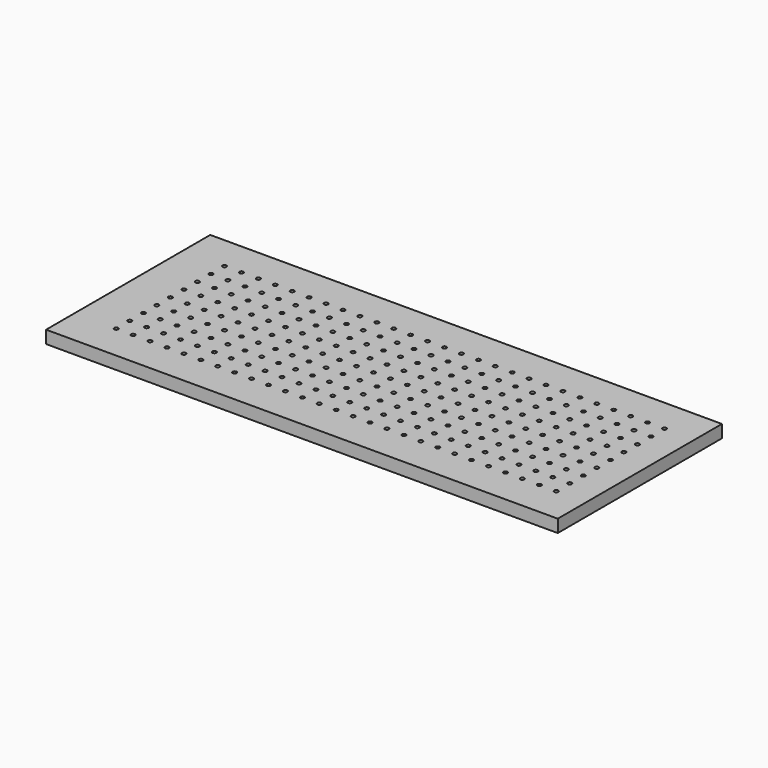
from build123d import *

# Parameters (mm, degrees)
F0_W     = 768
F0_H     = 308
F0_R     = 3
F1_DEPTH = 19.05


with BuildPart() as f1:
    # F0 (on Top) → F1 (new body)
    with BuildSketch(Plane.XY):
        with Locations((-204.445544, -567.981527)):
            Rectangle(F0_W, F0_H)
        with Locations((-525.842051, -668.64151)):
            Circle(F0_R, mode=Mode.SUBTRACT)
        with Locations((-500.442051, -668.64151)):
            Circle(F0_R, mode=Mode.SUBTRACT)
        with Locations((-475.042051, -668.64151)):
            Circle(F0_R, mode=Mode.SUBTRACT)
        with Locations((-449.642051, -668.64151)):
            Circle(F0_R, mode=Mode.SUBTRACT)
        with Locations((-424.242051, -668.64151)):
            Circle(F0_R, mode=Mode.SUBTRACT)
        with Locations((-398.842051, -668.64151)):
            Circle(F0_R, mode=Mode.SUBTRACT)
        with Locations((-373.442051, -668.64151)):
            Circle(F0_R, mode=Mode.SUBTRACT)
        with Locations((-348.042051, -668.64151)):
            Circle(F0_R, mode=Mode.SUBTRACT)
        with Locations((-322.642051, -668.64151)):
            Circle(F0_R, mode=Mode.SUBTRACT)
        with Locations((-297.242051, -668.64151)):
            Circle(F0_R, mode=Mode.SUBTRACT)
        with Locations((-271.842051, -668.64151)):
            Circle(F0_R, mode=Mode.SUBTRACT)
        with Locations((-246.442051, -668.64151)):
            Circle(F0_R, mode=Mode.SUBTRACT)
        with Locations((-221.042051, -668.64151)):
            Circle(F0_R, mode=Mode.SUBTRACT)
        with Locations((-525.842051, -643.24151)):
            Circle(F0_R, mode=Mode.SUBTRACT)
        with Locations((-500.442051, -643.24151)):
            Circle(F0_R, mode=Mode.SUBTRACT)
        with Locations((-525.842051, -617.84151)):
            Circle(F0_R, mode=Mode.SUBTRACT)
        with Locations((-500.442051, -617.84151)):
            Circle(F0_R, mode=Mode.SUBTRACT)
        with Locations((-475.042051, -643.24151)):
            Circle(F0_R, mode=Mode.SUBTRACT)
        with Locations((-449.642051, -643.24151)):
            Circle(F0_R, mode=Mode.SUBTRACT)
        with Locations((-424.242051, -643.24151)):
            Circle(F0_R, mode=Mode.SUBTRACT)
        with Locations((-398.842051, -643.24151)):
            Circle(F0_R, mode=Mode.SUBTRACT)
        with Locations((-475.042051, -617.84151)):
            Circle(F0_R, mode=Mode.SUBTRACT)
        with Locations((-449.642051, -617.84151)):
            Circle(F0_R, mode=Mode.SUBTRACT)
        with Locations((-424.242051, -617.84151)):
            Circle(F0_R, mode=Mode.SUBTRACT)
        with Locations((-398.842051, -617.84151)):
            Circle(F0_R, mode=Mode.SUBTRACT)
        with Locations((-525.842051, -592.44151)):
            Circle(F0_R, mode=Mode.SUBTRACT)
        with Locations((-500.442051, -592.44151)):
            Circle(F0_R, mode=Mode.SUBTRACT)
        with Locations((-475.042051, -592.44151)):
            Circle(F0_R, mode=Mode.SUBTRACT)
        with Locations((-449.642051, -592.44151)):
            Circle(F0_R, mode=Mode.SUBTRACT)
        with Locations((-424.242051, -592.44151)):
            Circle(F0_R, mode=Mode.SUBTRACT)
        with Locations((-398.842051, -592.44151)):
            Circle(F0_R, mode=Mode.SUBTRACT)
        with Locations((-373.442051, -643.24151)):
            Circle(F0_R, mode=Mode.SUBTRACT)
        with Locations((-348.042051, -643.24151)):
            Circle(F0_R, mode=Mode.SUBTRACT)
        with Locations((-322.642051, -643.24151)):
            Circle(F0_R, mode=Mode.SUBTRACT)
        with Locations((-373.442051, -617.84151)):
            Circle(F0_R, mode=Mode.SUBTRACT)
        with Locations((-348.042051, -617.84151)):
            Circle(F0_R, mode=Mode.SUBTRACT)
        with Locations((-322.642051, -617.84151)):
            Circle(F0_R, mode=Mode.SUBTRACT)
        with Locations((-297.242051, -643.24151)):
            Circle(F0_R, mode=Mode.SUBTRACT)
        with Locations((-271.842051, -643.24151)):
            Circle(F0_R, mode=Mode.SUBTRACT)
        with Locations((-246.442051, -643.24151)):
            Circle(F0_R, mode=Mode.SUBTRACT)
        with Locations((-221.042051, -643.24151)):
            Circle(F0_R, mode=Mode.SUBTRACT)
        with Locations((-297.242051, -617.84151)):
            Circle(F0_R, mode=Mode.SUBTRACT)
        with Locations((-271.842051, -617.84151)):
            Circle(F0_R, mode=Mode.SUBTRACT)
        with Locations((-246.442051, -617.84151)):
            Circle(F0_R, mode=Mode.SUBTRACT)
        with Locations((-221.042051, -617.84151)):
            Circle(F0_R, mode=Mode.SUBTRACT)
        with Locations((-373.442051, -592.44151)):
            Circle(F0_R, mode=Mode.SUBTRACT)
        with Locations((-348.042051, -592.44151)):
            Circle(F0_R, mode=Mode.SUBTRACT)
        with Locations((-322.642051, -592.44151)):
            Circle(F0_R, mode=Mode.SUBTRACT)
        with Locations((-297.242051, -592.44151)):
            Circle(F0_R, mode=Mode.SUBTRACT)
        with Locations((-271.842051, -592.44151)):
            Circle(F0_R, mode=Mode.SUBTRACT)
        with Locations((-246.442051, -592.44151)):
            Circle(F0_R, mode=Mode.SUBTRACT)
        with Locations((-221.042051, -592.44151)):
            Circle(F0_R, mode=Mode.SUBTRACT)
        with Locations((-195.642051, -668.64151)):
            Circle(F0_R, mode=Mode.SUBTRACT)
        with Locations((-170.242051, -668.64151)):
            Circle(F0_R, mode=Mode.SUBTRACT)
        with Locations((-144.842051, -668.64151)):
            Circle(F0_R, mode=Mode.SUBTRACT)
        with Locations((-119.442051, -668.64151)):
            Circle(F0_R, mode=Mode.SUBTRACT)
        with Locations((-94.042051, -668.64151)):
            Circle(F0_R, mode=Mode.SUBTRACT)
        with Locations((-68.642051, -668.64151)):
            Circle(F0_R, mode=Mode.SUBTRACT)
        with Locations((-43.242051, -668.64151)):
            Circle(F0_R, mode=Mode.SUBTRACT)
        with Locations((-17.842051, -668.64151)):
            Circle(F0_R, mode=Mode.SUBTRACT)
        with Locations((7.557949, -668.64151)):
            Circle(F0_R, mode=Mode.SUBTRACT)
        with Locations((32.957949, -668.64151)):
            Circle(F0_R, mode=Mode.SUBTRACT)
        with Locations((58.357949, -668.64151)):
            Circle(F0_R, mode=Mode.SUBTRACT)
        with Locations((83.757949, -668.64151)):
            Circle(F0_R, mode=Mode.SUBTRACT)
        with Locations((109.157949, -668.64151)):
            Circle(F0_R, mode=Mode.SUBTRACT)
        with Locations((134.557949, -668.64151)):
            Circle(F0_R, mode=Mode.SUBTRACT)
        with Locations((-195.642051, -643.24151)):
            Circle(F0_R, mode=Mode.SUBTRACT)
        with Locations((-170.242051, -643.24151)):
            Circle(F0_R, mode=Mode.SUBTRACT)
        with Locations((-144.842051, -643.24151)):
            Circle(F0_R, mode=Mode.SUBTRACT)
        with Locations((-119.442051, -643.24151)):
            Circle(F0_R, mode=Mode.SUBTRACT)
        with Locations((-195.642051, -617.84151)):
            Circle(F0_R, mode=Mode.SUBTRACT)
        with Locations((-170.242051, -617.84151)):
            Circle(F0_R, mode=Mode.SUBTRACT)
        with Locations((-144.842051, -617.84151)):
            Circle(F0_R, mode=Mode.SUBTRACT)
        with Locations((-119.442051, -617.84151)):
            Circle(F0_R, mode=Mode.SUBTRACT)
        with Locations((-94.042051, -643.24151)):
            Circle(F0_R, mode=Mode.SUBTRACT)
        with Locations((-68.642051, -643.24151)):
            Circle(F0_R, mode=Mode.SUBTRACT)
        with Locations((-43.242051, -643.24151)):
            Circle(F0_R, mode=Mode.SUBTRACT)
        with Locations((-17.842051, -643.24151)):
            Circle(F0_R, mode=Mode.SUBTRACT)
        with Locations((-94.042051, -617.84151)):
            Circle(F0_R, mode=Mode.SUBTRACT)
        with Locations((-68.642051, -617.84151)):
            Circle(F0_R, mode=Mode.SUBTRACT)
        with Locations((-43.242051, -617.84151)):
            Circle(F0_R, mode=Mode.SUBTRACT)
        with Locations((-17.842051, -617.84151)):
            Circle(F0_R, mode=Mode.SUBTRACT)
        with Locations((-195.642051, -592.44151)):
            Circle(F0_R, mode=Mode.SUBTRACT)
        with Locations((-170.242051, -592.44151)):
            Circle(F0_R, mode=Mode.SUBTRACT)
        with Locations((-144.842051, -592.44151)):
            Circle(F0_R, mode=Mode.SUBTRACT)
        with Locations((-119.442051, -592.44151)):
            Circle(F0_R, mode=Mode.SUBTRACT)
        with Locations((-94.042051, -592.44151)):
            Circle(F0_R, mode=Mode.SUBTRACT)
        with Locations((-68.642051, -592.44151)):
            Circle(F0_R, mode=Mode.SUBTRACT)
        with Locations((-43.242051, -592.44151)):
            Circle(F0_R, mode=Mode.SUBTRACT)
        with Locations((-17.842051, -592.44151)):
            Circle(F0_R, mode=Mode.SUBTRACT)
        with Locations((7.557949, -643.24151)):
            Circle(F0_R, mode=Mode.SUBTRACT)
        with Locations((32.957949, -643.24151)):
            Circle(F0_R, mode=Mode.SUBTRACT)
        with Locations((58.357949, -643.24151)):
            Circle(F0_R, mode=Mode.SUBTRACT)
        with Locations((7.557949, -617.84151)):
            Circle(F0_R, mode=Mode.SUBTRACT)
        with Locations((32.957949, -617.84151)):
            Circle(F0_R, mode=Mode.SUBTRACT)
        with Locations((58.357949, -617.84151)):
            Circle(F0_R, mode=Mode.SUBTRACT)
        with Locations((83.757949, -643.24151)):
            Circle(F0_R, mode=Mode.SUBTRACT)
        with Locations((109.157949, -643.24151)):
            Circle(F0_R, mode=Mode.SUBTRACT)
        with Locations((134.557949, -643.24151)):
            Circle(F0_R, mode=Mode.SUBTRACT)
        with Locations((83.757949, -617.84151)):
            Circle(F0_R, mode=Mode.SUBTRACT)
        with Locations((109.157949, -617.84151)):
            Circle(F0_R, mode=Mode.SUBTRACT)
        with Locations((134.557949, -617.84151)):
            Circle(F0_R, mode=Mode.SUBTRACT)
        with Locations((7.557949, -592.44151)):
            Circle(F0_R, mode=Mode.SUBTRACT)
        with Locations((32.957949, -592.44151)):
            Circle(F0_R, mode=Mode.SUBTRACT)
        with Locations((58.357949, -592.44151)):
            Circle(F0_R, mode=Mode.SUBTRACT)
        with Locations((83.757949, -592.44151)):
            Circle(F0_R, mode=Mode.SUBTRACT)
        with Locations((109.157949, -592.44151)):
            Circle(F0_R, mode=Mode.SUBTRACT)
        with Locations((134.557949, -592.44151)):
            Circle(F0_R, mode=Mode.SUBTRACT)
        with Locations((-525.842051, -567.04151)):
            Circle(F0_R, mode=Mode.SUBTRACT)
        with Locations((-500.442051, -567.04151)):
            Circle(F0_R, mode=Mode.SUBTRACT)
        with Locations((-525.842051, -541.64151)):
            Circle(F0_R, mode=Mode.SUBTRACT)
        with Locations((-500.442051, -541.64151)):
            Circle(F0_R, mode=Mode.SUBTRACT)
        with Locations((-475.042051, -567.04151)):
            Circle(F0_R, mode=Mode.SUBTRACT)
        with Locations((-449.642051, -567.04151)):
            Circle(F0_R, mode=Mode.SUBTRACT)
        with Locations((-424.242051, -567.04151)):
            Circle(F0_R, mode=Mode.SUBTRACT)
        with Locations((-398.842051, -567.04151)):
            Circle(F0_R, mode=Mode.SUBTRACT)
        with Locations((-475.042051, -541.64151)):
            Circle(F0_R, mode=Mode.SUBTRACT)
        with Locations((-449.642051, -541.64151)):
            Circle(F0_R, mode=Mode.SUBTRACT)
        with Locations((-424.242051, -541.64151)):
            Circle(F0_R, mode=Mode.SUBTRACT)
        with Locations((-398.842051, -541.64151)):
            Circle(F0_R, mode=Mode.SUBTRACT)
        with Locations((-525.842051, -516.24151)):
            Circle(F0_R, mode=Mode.SUBTRACT)
        with Locations((-500.442051, -516.24151)):
            Circle(F0_R, mode=Mode.SUBTRACT)
        with Locations((-475.042051, -516.24151)):
            Circle(F0_R, mode=Mode.SUBTRACT)
        with Locations((-449.642051, -516.24151)):
            Circle(F0_R, mode=Mode.SUBTRACT)
        with Locations((-424.242051, -516.24151)):
            Circle(F0_R, mode=Mode.SUBTRACT)
        with Locations((-398.842051, -516.24151)):
            Circle(F0_R, mode=Mode.SUBTRACT)
        with Locations((-373.442051, -567.04151)):
            Circle(F0_R, mode=Mode.SUBTRACT)
        with Locations((-348.042051, -567.04151)):
            Circle(F0_R, mode=Mode.SUBTRACT)
        with Locations((-322.642051, -567.04151)):
            Circle(F0_R, mode=Mode.SUBTRACT)
        with Locations((-373.442051, -541.64151)):
            Circle(F0_R, mode=Mode.SUBTRACT)
        with Locations((-348.042051, -541.64151)):
            Circle(F0_R, mode=Mode.SUBTRACT)
        with Locations((-322.642051, -541.64151)):
            Circle(F0_R, mode=Mode.SUBTRACT)
        with Locations((-297.242051, -567.04151)):
            Circle(F0_R, mode=Mode.SUBTRACT)
        with Locations((-271.842051, -567.04151)):
            Circle(F0_R, mode=Mode.SUBTRACT)
        with Locations((-246.442051, -567.04151)):
            Circle(F0_R, mode=Mode.SUBTRACT)
        with Locations((-221.042051, -567.04151)):
            Circle(F0_R, mode=Mode.SUBTRACT)
        with Locations((-297.242051, -541.64151)):
            Circle(F0_R, mode=Mode.SUBTRACT)
        with Locations((-271.842051, -541.64151)):
            Circle(F0_R, mode=Mode.SUBTRACT)
        with Locations((-246.442051, -541.64151)):
            Circle(F0_R, mode=Mode.SUBTRACT)
        with Locations((-221.042051, -541.64151)):
            Circle(F0_R, mode=Mode.SUBTRACT)
        with Locations((-373.442051, -516.24151)):
            Circle(F0_R, mode=Mode.SUBTRACT)
        with Locations((-348.042051, -516.24151)):
            Circle(F0_R, mode=Mode.SUBTRACT)
        with Locations((-322.642051, -516.24151)):
            Circle(F0_R, mode=Mode.SUBTRACT)
        with Locations((-297.242051, -516.24151)):
            Circle(F0_R, mode=Mode.SUBTRACT)
        with Locations((-271.842051, -516.24151)):
            Circle(F0_R, mode=Mode.SUBTRACT)
        with Locations((-246.442051, -516.24151)):
            Circle(F0_R, mode=Mode.SUBTRACT)
        with Locations((-221.042051, -516.24151)):
            Circle(F0_R, mode=Mode.SUBTRACT)
        with Locations((-525.842051, -490.84151)):
            Circle(F0_R, mode=Mode.SUBTRACT)
        with Locations((-500.442051, -490.84151)):
            Circle(F0_R, mode=Mode.SUBTRACT)
        with Locations((-525.842051, -465.44151)):
            Circle(F0_R, mode=Mode.SUBTRACT)
        with Locations((-500.442051, -465.44151)):
            Circle(F0_R, mode=Mode.SUBTRACT)
        with Locations((-475.042051, -490.84151)):
            Circle(F0_R, mode=Mode.SUBTRACT)
        with Locations((-449.642051, -490.84151)):
            Circle(F0_R, mode=Mode.SUBTRACT)
        with Locations((-424.242051, -490.84151)):
            Circle(F0_R, mode=Mode.SUBTRACT)
        with Locations((-398.842051, -490.84151)):
            Circle(F0_R, mode=Mode.SUBTRACT)
        with Locations((-475.042051, -465.44151)):
            Circle(F0_R, mode=Mode.SUBTRACT)
        with Locations((-449.642051, -465.44151)):
            Circle(F0_R, mode=Mode.SUBTRACT)
        with Locations((-424.242051, -465.44151)):
            Circle(F0_R, mode=Mode.SUBTRACT)
        with Locations((-398.842051, -465.44151)):
            Circle(F0_R, mode=Mode.SUBTRACT)
        with Locations((-373.442051, -490.84151)):
            Circle(F0_R, mode=Mode.SUBTRACT)
        with Locations((-348.042051, -490.84151)):
            Circle(F0_R, mode=Mode.SUBTRACT)
        with Locations((-322.642051, -490.84151)):
            Circle(F0_R, mode=Mode.SUBTRACT)
        with Locations((-373.442051, -465.44151)):
            Circle(F0_R, mode=Mode.SUBTRACT)
        with Locations((-348.042051, -465.44151)):
            Circle(F0_R, mode=Mode.SUBTRACT)
        with Locations((-322.642051, -465.44151)):
            Circle(F0_R, mode=Mode.SUBTRACT)
        with Locations((-297.242051, -490.84151)):
            Circle(F0_R, mode=Mode.SUBTRACT)
        with Locations((-271.842051, -490.84151)):
            Circle(F0_R, mode=Mode.SUBTRACT)
        with Locations((-246.442051, -490.84151)):
            Circle(F0_R, mode=Mode.SUBTRACT)
        with Locations((-221.042051, -490.84151)):
            Circle(F0_R, mode=Mode.SUBTRACT)
        with Locations((-297.242051, -465.44151)):
            Circle(F0_R, mode=Mode.SUBTRACT)
        with Locations((-271.842051, -465.44151)):
            Circle(F0_R, mode=Mode.SUBTRACT)
        with Locations((-246.442051, -465.44151)):
            Circle(F0_R, mode=Mode.SUBTRACT)
        with Locations((-221.042051, -465.44151)):
            Circle(F0_R, mode=Mode.SUBTRACT)
        with Locations((-195.642051, -567.04151)):
            Circle(F0_R, mode=Mode.SUBTRACT)
        with Locations((-170.242051, -567.04151)):
            Circle(F0_R, mode=Mode.SUBTRACT)
        with Locations((-144.842051, -567.04151)):
            Circle(F0_R, mode=Mode.SUBTRACT)
        with Locations((-119.442051, -567.04151)):
            Circle(F0_R, mode=Mode.SUBTRACT)
        with Locations((-195.642051, -541.64151)):
            Circle(F0_R, mode=Mode.SUBTRACT)
        with Locations((-170.242051, -541.64151)):
            Circle(F0_R, mode=Mode.SUBTRACT)
        with Locations((-144.842051, -541.64151)):
            Circle(F0_R, mode=Mode.SUBTRACT)
        with Locations((-119.442051, -541.64151)):
            Circle(F0_R, mode=Mode.SUBTRACT)
        with Locations((-94.042051, -567.04151)):
            Circle(F0_R, mode=Mode.SUBTRACT)
        with Locations((-68.642051, -567.04151)):
            Circle(F0_R, mode=Mode.SUBTRACT)
        with Locations((-43.242051, -567.04151)):
            Circle(F0_R, mode=Mode.SUBTRACT)
        with Locations((-17.842051, -567.04151)):
            Circle(F0_R, mode=Mode.SUBTRACT)
        with Locations((-94.042051, -541.64151)):
            Circle(F0_R, mode=Mode.SUBTRACT)
        with Locations((-68.642051, -541.64151)):
            Circle(F0_R, mode=Mode.SUBTRACT)
        with Locations((-43.242051, -541.64151)):
            Circle(F0_R, mode=Mode.SUBTRACT)
        with Locations((-17.842051, -541.64151)):
            Circle(F0_R, mode=Mode.SUBTRACT)
        with Locations((-195.642051, -516.24151)):
            Circle(F0_R, mode=Mode.SUBTRACT)
        with Locations((-170.242051, -516.24151)):
            Circle(F0_R, mode=Mode.SUBTRACT)
        with Locations((-144.842051, -516.24151)):
            Circle(F0_R, mode=Mode.SUBTRACT)
        with Locations((-119.442051, -516.24151)):
            Circle(F0_R, mode=Mode.SUBTRACT)
        with Locations((-94.042051, -516.24151)):
            Circle(F0_R, mode=Mode.SUBTRACT)
        with Locations((-68.642051, -516.24151)):
            Circle(F0_R, mode=Mode.SUBTRACT)
        with Locations((-43.242051, -516.24151)):
            Circle(F0_R, mode=Mode.SUBTRACT)
        with Locations((-17.842051, -516.24151)):
            Circle(F0_R, mode=Mode.SUBTRACT)
        with Locations((7.557949, -567.04151)):
            Circle(F0_R, mode=Mode.SUBTRACT)
        with Locations((32.957949, -567.04151)):
            Circle(F0_R, mode=Mode.SUBTRACT)
        with Locations((58.357949, -567.04151)):
            Circle(F0_R, mode=Mode.SUBTRACT)
        with Locations((7.557949, -541.64151)):
            Circle(F0_R, mode=Mode.SUBTRACT)
        with Locations((32.957949, -541.64151)):
            Circle(F0_R, mode=Mode.SUBTRACT)
        with Locations((58.357949, -541.64151)):
            Circle(F0_R, mode=Mode.SUBTRACT)
        with Locations((83.757949, -567.04151)):
            Circle(F0_R, mode=Mode.SUBTRACT)
        with Locations((109.157949, -567.04151)):
            Circle(F0_R, mode=Mode.SUBTRACT)
        with Locations((134.557949, -567.04151)):
            Circle(F0_R, mode=Mode.SUBTRACT)
        with Locations((83.757949, -541.64151)):
            Circle(F0_R, mode=Mode.SUBTRACT)
        with Locations((109.157949, -541.64151)):
            Circle(F0_R, mode=Mode.SUBTRACT)
        with Locations((134.557949, -541.64151)):
            Circle(F0_R, mode=Mode.SUBTRACT)
        with Locations((7.557949, -516.24151)):
            Circle(F0_R, mode=Mode.SUBTRACT)
        with Locations((32.957949, -516.24151)):
            Circle(F0_R, mode=Mode.SUBTRACT)
        with Locations((58.357949, -516.24151)):
            Circle(F0_R, mode=Mode.SUBTRACT)
        with Locations((83.757949, -516.24151)):
            Circle(F0_R, mode=Mode.SUBTRACT)
        with Locations((109.157949, -516.24151)):
            Circle(F0_R, mode=Mode.SUBTRACT)
        with Locations((134.557949, -516.24151)):
            Circle(F0_R, mode=Mode.SUBTRACT)
        with Locations((-195.642051, -490.84151)):
            Circle(F0_R, mode=Mode.SUBTRACT)
        with Locations((-170.242051, -490.84151)):
            Circle(F0_R, mode=Mode.SUBTRACT)
        with Locations((-144.842051, -490.84151)):
            Circle(F0_R, mode=Mode.SUBTRACT)
        with Locations((-119.442051, -490.84151)):
            Circle(F0_R, mode=Mode.SUBTRACT)
        with Locations((-195.642051, -465.44151)):
            Circle(F0_R, mode=Mode.SUBTRACT)
        with Locations((-170.242051, -465.44151)):
            Circle(F0_R, mode=Mode.SUBTRACT)
        with Locations((-144.842051, -465.44151)):
            Circle(F0_R, mode=Mode.SUBTRACT)
        with Locations((-119.442051, -465.44151)):
            Circle(F0_R, mode=Mode.SUBTRACT)
        with Locations((-94.042051, -490.84151)):
            Circle(F0_R, mode=Mode.SUBTRACT)
        with Locations((-68.642051, -490.84151)):
            Circle(F0_R, mode=Mode.SUBTRACT)
        with Locations((-43.242051, -490.84151)):
            Circle(F0_R, mode=Mode.SUBTRACT)
        with Locations((-17.842051, -490.84151)):
            Circle(F0_R, mode=Mode.SUBTRACT)
        with Locations((-94.042051, -465.44151)):
            Circle(F0_R, mode=Mode.SUBTRACT)
        with Locations((-68.642051, -465.44151)):
            Circle(F0_R, mode=Mode.SUBTRACT)
        with Locations((-43.242051, -465.44151)):
            Circle(F0_R, mode=Mode.SUBTRACT)
        with Locations((-17.842051, -465.44151)):
            Circle(F0_R, mode=Mode.SUBTRACT)
        with Locations((7.557949, -490.84151)):
            Circle(F0_R, mode=Mode.SUBTRACT)
        with Locations((32.957949, -490.84151)):
            Circle(F0_R, mode=Mode.SUBTRACT)
        with Locations((58.357949, -490.84151)):
            Circle(F0_R, mode=Mode.SUBTRACT)
        with Locations((7.557949, -465.44151)):
            Circle(F0_R, mode=Mode.SUBTRACT)
        with Locations((32.957949, -465.44151)):
            Circle(F0_R, mode=Mode.SUBTRACT)
        with Locations((58.357949, -465.44151)):
            Circle(F0_R, mode=Mode.SUBTRACT)
        with Locations((83.757949, -490.84151)):
            Circle(F0_R, mode=Mode.SUBTRACT)
        with Locations((109.157949, -490.84151)):
            Circle(F0_R, mode=Mode.SUBTRACT)
        with Locations((134.557949, -490.84151)):
            Circle(F0_R, mode=Mode.SUBTRACT)
        with Locations((83.757949, -465.44151)):
            Circle(F0_R, mode=Mode.SUBTRACT)
        with Locations((109.157949, -465.44151)):
            Circle(F0_R, mode=Mode.SUBTRACT)
        with Locations((134.557949, -465.44151)):
            Circle(F0_R, mode=Mode.SUBTRACT)
    extrude(amount=F1_DEPTH)


solid = f1.part
